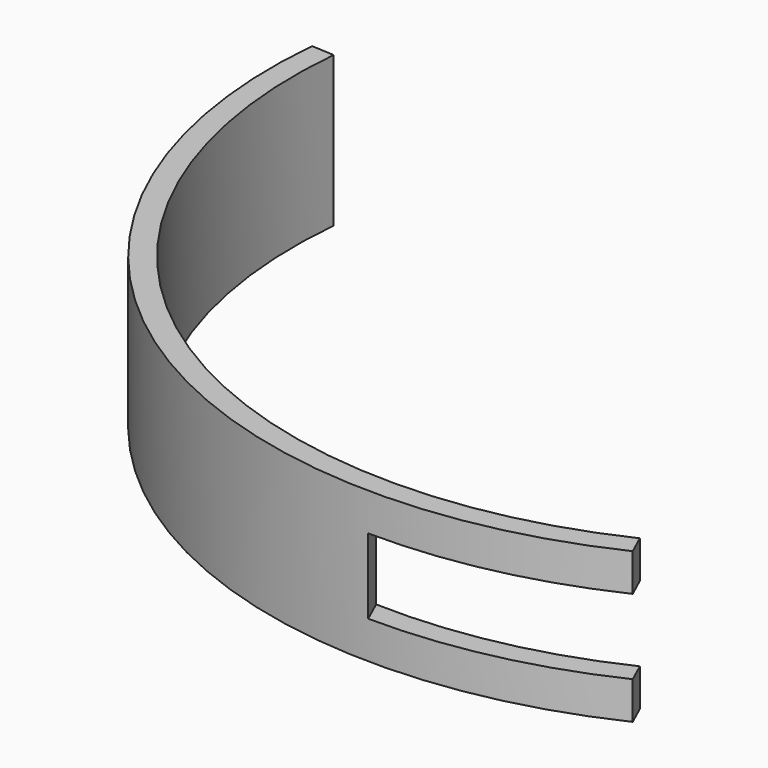
from build123d import *

# Parameters (mm, degrees)
F1_DEPTH = 101.6
F3_DEPTH = 152.4


with BuildPart() as f1:
    # F0 (on Top) → F1 (new body)
    with BuildSketch(Plane.XY):
        with BuildLine():
            ThreePointArc((471.423321, -25.710636), (139.580084, 2.415757), (0.027949, 304.8))
            Line((0.027949, 304.8), (-15.201777, 305.623494))
            ThreePointArc((-15.201777, 305.623494), (130.974786, -10.163429), (477.706076, -39.597778))
            Line((477.706076, -39.597778), (471.423321, -25.710636))
        make_face()
    extrude(amount=F1_DEPTH)

    # F2 (on face) → F3 (cut)
    with BuildSketch(Plane(origin=(381.67117, 172.673839, 0), x_dir=(-0.412194, 0.911096, 0), z_dir=(0.911096, 0.412194, 0))):
        Polygon((-139.049853, 76.2), (-316.849853, 76.2), (-316.849853, 25.4), (-232.984855, 25.4), (-139.049853, 25.4), align=None)
    extrude(amount=-F3_DEPTH, mode=Mode.SUBTRACT)


solid = f1.part
